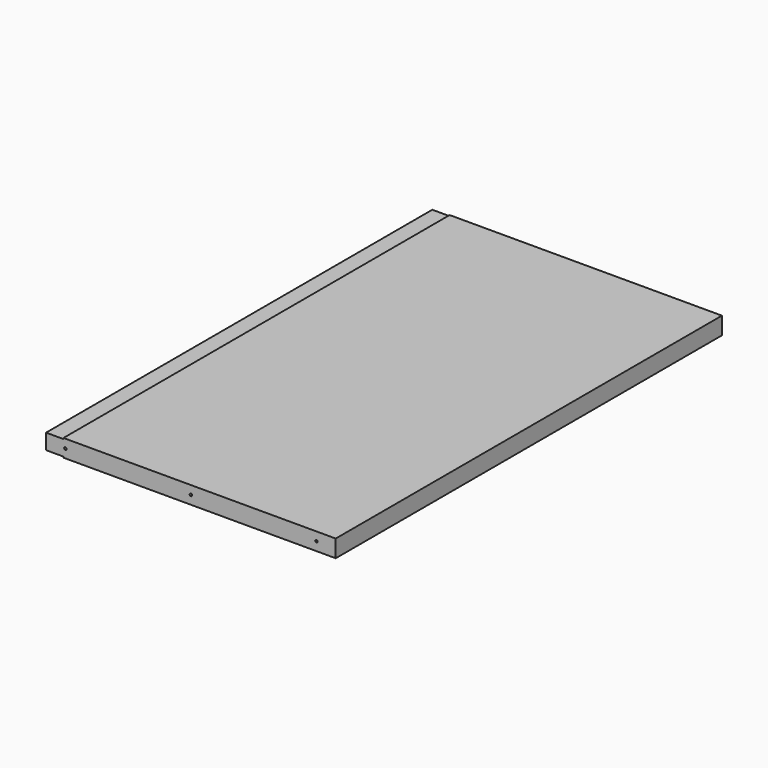
from build123d import *

# Parameters (mm, degrees)
F0_W     = 300
F0_H     = 500
F1_DEPTH = 18
F3_D     = 2.5
F3_DEPTH = 14.5
F3_TIP   = 0.7510757738
F5_D     = 2.5
F5_DEPTH = 14
F5_TIP   = 0.7510757738
F6_W     = 18
F6_H     = 1
F7_DEPTH = 500.001


with BuildPart() as f1:
    # F0 (on Top) → F1 (new body)
    with BuildSketch(Plane.XY):
        with Locations((150, -250)):
            Rectangle(F0_W, F0_H)
    extrude(amount=F1_DEPTH)

    # F3
    with Locations(Plane.XZ.offset(500)):
        with Locations((20, 9), (150, 9), (280, 9)):
            Hole(F3_D / 2, depth=F3_DEPTH)
            with Locations((0, 0, -(F3_DEPTH + F3_TIP / 2))):  # 118° drill point
                Cone(0, F3_D / 2, F3_TIP, mode=Mode.SUBTRACT)

    # F5
    with Locations(Plane(origin=(0, 0, 0), x_dir=(-1, 0, 0), z_dir=(0, 1, 0))):
        with Locations((-280, 9), (-150, 9), (-20, 9)):
            Hole(F5_D / 2, depth=F5_DEPTH)
            with Locations((0, 0, -(F5_DEPTH + F5_TIP / 2))):  # 118° drill point
                Cone(0, F5_D / 2, F5_TIP, mode=Mode.SUBTRACT)

    # F6 (on face) → F7 (cut, through all)
    with BuildSketch(Plane.XZ.offset(500)):
        with Locations((9, 17.5)):
            Rectangle(F6_W, F6_H)
        with Locations((9, 0.5)):
            Rectangle(F6_W, F6_H)
    extrude(amount=-F7_DEPTH, mode=Mode.SUBTRACT)


solid = f1.part
